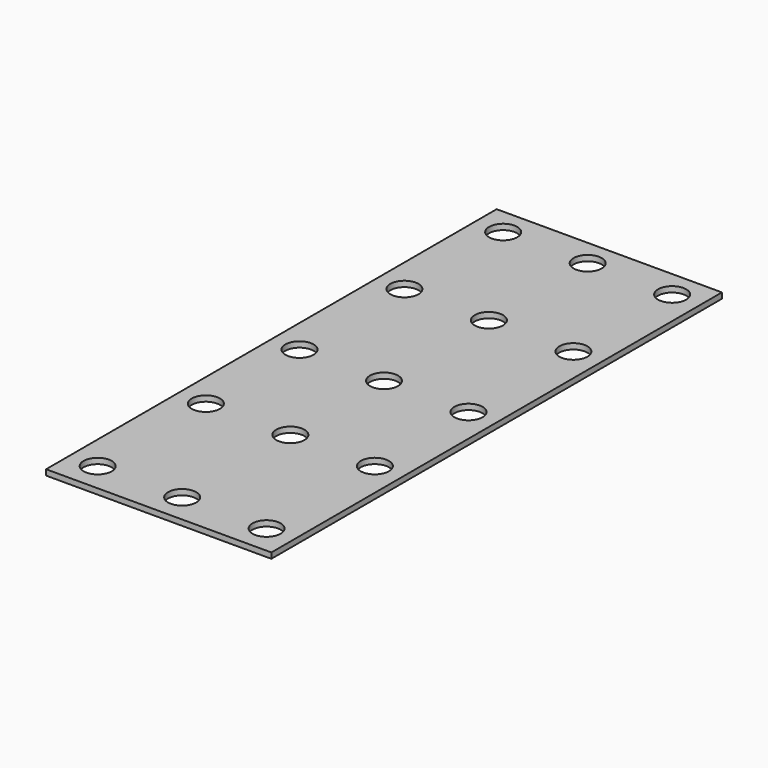
from build123d import *

# Parameters (mm, degrees)
F0_W       = 50.8
F0_H       = 127
F1_DEPTH   = 1.27
F3_D       = 6.35
F3_ON_F0_D = 6.35


with BuildPart() as f1:
    # F0 (on Top) → F1 (new body)
    with BuildSketch(Plane.XY):
        Rectangle(F0_W, F0_H)
    extrude(amount=F1_DEPTH)

    # F3 (through all)
    with Locations(Plane(origin=(0, 0, 0), x_dir=(1, 0, 0), z_dir=(0, 0, -1))):
        with Locations((-19.05, -57.4053688833), (0, -57.4053688833), (19.05, -57.4053688833), (19.05, -29.5683733465), (0, -29.5683733465), (-19.05, -29.5683733465), (-19.05, 0), (19.05, 0), (19.05, 26.3971900072), (0, 56.8946311167), (0, 26.3971900072), (-19.05, 26.3971900072), (-19.05, 56.8946311167), (19.05, 56.8946311167)):
            Hole(F3_D / 2)

    # F3 on F0 (through all)
    with Locations(Plane(origin=(0, 0, 0), x_dir=(1, 0, 0), z_dir=(0, 0, -1))):
        with Locations((0, 0)):
            Hole(F3_ON_F0_D / 2)


solid = f1.part
